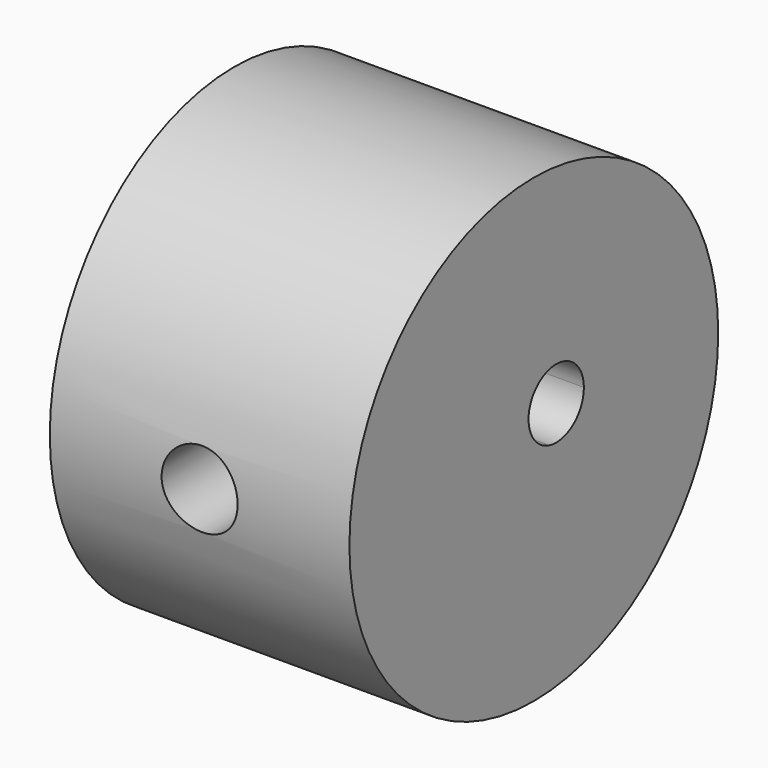
from build123d import *

# Parameters (mm, degrees)
F1_DEPTH = 26
F4_D     = 6.6
F4_DEPTH = 15
F4_START = 0.2741288
F4_TIP   = 1.9828400428


with BuildPart() as f1:
    # F0 (on Right) → F1 (new body)
    with BuildSketch(Plane.YZ):
        with BuildLine():
            ThreePointArc((-20, 0), (0, -20), (20, 0))
            ThreePointArc((20, 0), (0, 20), (-20, 0))
        make_face()
        with BuildLine():
            ThreePointArc((1.6777846361, -1.1436521746), (0.7391936443, -0.7180881299), (0, 0))
            ThreePointArc((0, 0), (1.503363673, 4.6144527121), (5.4289097006, 1.7607946122))
            ThreePointArc((5.4289097006, 1.7607946122), (4.2655676446, -0.6112693828), (1.6777846361, -1.1436521746))
        make_face(mode=Mode.SUBTRACT)
    extrude(amount=F1_DEPTH)

    # F4
    # its depths count from where the whole tool has entered the part; down to there all is cleared
    with Locations(Plane.XZ.offset(20).offset(-F4_START)):
        with Locations((13, 0)):
            Hole(F4_D / 2, depth=F4_DEPTH)
            with Locations((0, 0, -(F4_DEPTH + F4_TIP / 2))):  # 118° drill point
                Cone(0, F4_D / 2, F4_TIP, mode=Mode.SUBTRACT)


solid = f1.part
